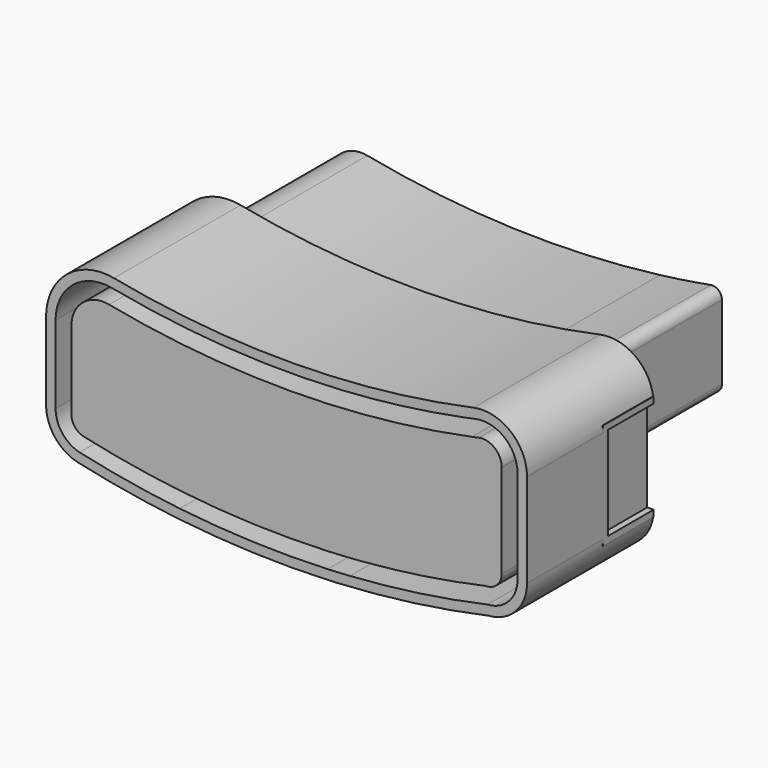
from build123d import *

# Parameters (mm, degrees)
F1_DEPTH = 82.55
F2_DEPTH = 79.375
F3_DEPTH = 79.375
F4_W     = 28.575
F4_H     = 46.8736138582
F5_DEPTH = 3.175
F4_W_2   = 31.75
F4_H_2   = 2.9616859944
F6_DEPTH = 2.54


with BuildPart() as f1:
    # F0 (on Front) → F1 (new body)
    with BuildSketch(Plane.XZ):
        with BuildLine():
            ThreePointArc((-38.1684067206, 50.7320462984), (-51.3011196758, 47.4032787363), (-57.0821855985, 35.1506006681))
            Line((-57.0821855985, 35.1506006681), (-57.0821855985, -3.9509958427))
            ThreePointArc((-57.0821855985, -3.9509958427), (-55.426384653, -8.8032286523), (-51.1497980108, -11.6310629299))
            ThreePointArc((-51.1497980108, -11.6310629299), (-26.559856165, -16.4669461082), (-1.7451494661, -19.9714200409))
            Line((-1.7451494661, -19.9714200409), (71.2249001265, -22.5109117746))
            ThreePointArc((71.2249001265, -22.5109117746), (72.2045700448, -22.4669599202), (73.1841451216, -22.4209427141))
            add(Edge.make_bspline(
                [(73.1841451216, -22.4209427141), (75.9434207871, -22.0422865359), (80.6734041506, -18.2947392446), (90.8872982521, -6.9644507778), (95.7219598854, 2.2987896539), (99.1133427614, 2.8890882254), (101.6678144015, 2.8890882254)],
                knots=[0.0441067744, 0.0441067744, 0.0441067744, 0.0441067744, 0.2456007741, 0.565769449, 0.8130127393, 1, 1, 1, 1], degree=3))
            Line((101.6678144015, 2.8890882254), (135.0053144015, 2.8890882254))
            ThreePointArc((135.0053144015, 2.8890882254), (138.3729104469, 4.28399218), (139.7678144015, 7.6515882254))
            Line((139.7678144015, 7.6515882254), (139.7678144015, 44.94061737))
            ThreePointArc((139.7678144015, 44.94061737), (138.0513208027, 48.601662474), (134.1391524576, 49.6236900511))
            ThreePointArc((134.1391524576, 49.6236900511), (121.4490364743, 47.4820539253), (108.6979382545, 45.7398877005))
            ThreePointArc((108.6979382545, 45.7398877005), (35.0663733736, 42.3993804581), (-38.1684067206, 50.7320462984))
        make_face()
    extrude(amount=-F1_DEPTH)

    # F0 (on Front) → F2 (join)
    with BuildSketch(Plane.XZ):
        with BuildLine():
            ThreePointArc((147.3177307895, 52.2405936393), (147.3040014388, 52.2376837155), (147.2902720004, 52.234774206))
            ThreePointArc((147.2902720004, 52.234774206), (148.7826730727, 48.7227814214), (149.2922567745, 44.9410253836))
            Line((149.2922567745, 44.9410253836), (149.2922567745, 7.651996239))
            ThreePointArc((149.2922567745, 7.651996239), (145.1075449107, -2.4507918972), (135.0047567745, -6.635503761))
            Line((135.0047567745, -6.635503761), (102.1617779669, -6.635503761))
            ThreePointArc((102.1617779669, -6.635503761), (101.7226719352, -6.7408371438), (101.3791365615, -7.0339116663))
            add(Edge.make_bspline(
                [(90.05797947, -21.3026723511), (91.3235592577, -19.9245232349), (94.9091214249, -16.0037133084), (98.8124235031, -10.5114004565), (100.7070874629, -7.957457618), (101.3791365615, -7.0339116663)],
                knots=[0.5378357414, 0.5378357414, 0.5378357414, 0.5378357414, 0.6467666082, 0.855418257, 0.9817631457, 0.9817631457, 0.9817631457, 0.9817631457], degree=3))
            ThreePointArc((90.05797947, -21.3026723511), (120.5668523927, -17.704884738), (150.7716967973, -12.1010666461))
            ThreePointArc((150.7716967973, -12.1010666461), (156.4544400736, -9.8152415628), (158.8178144015, -4.1643098484))
            Line((158.8178144015, -4.1643098484), (158.8178144015, 42.9226180155))
            ThreePointArc((158.8178144015, 42.9226180155), (155.2891863711, 50.3232361115), (147.3177307895, 52.2405936393))
        make_face()
        with BuildLine():
            ThreePointArc((-38.1684067206, 50.7320462984), (-51.3011196758, 47.4032787363), (-57.0821855985, 35.1506006681))
            Line((-57.0821855985, 35.1506006681), (-57.0821855985, -3.9509958427))
            ThreePointArc((-57.0821855985, -3.9509958427), (-55.426384653, -8.8032286523), (-51.1497980108, -11.6310629299))
            ThreePointArc((-51.1497980108, -11.6310629299), (-26.559856165, -16.4669461082), (-1.7451494661, -19.9714200409))
            Line((-1.7451494661, -19.9714200409), (71.2249001265, -22.5109117746))
            ThreePointArc((71.2249001265, -22.5109117746), (72.2045700448, -22.4669599202), (73.1841451216, -22.4209427141))
            add(Edge.make_bspline(
                [(73.1841451216, -22.4209427141), (75.9434207871, -22.0422865359), (80.6734041506, -18.2947392446), (90.8872982521, -6.9644507778), (95.7219598854, 2.2987896539), (99.1133427614, 2.8890882254), (101.6678144015, 2.8890882254)],
                knots=[0.0441067744, 0.0441067744, 0.0441067744, 0.0441067744, 0.2456007741, 0.565769449, 0.8130127393, 1, 1, 1, 1], degree=3))
            Line((101.6678144015, 2.8890882254), (135.0053144015, 2.8890882254))
            ThreePointArc((135.0053144015, 2.8890882254), (138.3729104469, 4.28399218), (139.7678144015, 7.6515882254))
            Line((139.7678144015, 7.6515882254), (139.7678144015, 44.94061737))
            ThreePointArc((139.7678144015, 44.94061737), (138.0513208027, 48.601662474), (134.1391524576, 49.6236900511))
            ThreePointArc((134.1391524576, 49.6236900511), (121.4490364743, 47.4820539253), (108.6979382545, 45.7398877005))
            ThreePointArc((108.6979382545, 45.7398877005), (35.0663733736, 42.3993804581), (-38.1684067206, 50.7320462984))
        make_face()
        with BuildLine():
            Line((71.2249001265, -22.5109117746), (-1.7451494661, -19.9714200409))
            ThreePointArc((-1.7451494661, -19.9714200409), (34.6899692652, -22.6751725593), (71.2249001265, -22.5109117746))
        make_face()
        with BuildLine():
            ThreePointArc((143.9466783497, 51.5390768111), (126.3780011208, 48.30096912), (108.6979382545, 45.7398877005))
            ThreePointArc((108.6979382545, 45.7398877005), (121.4490364743, 47.4820539253), (134.1391524576, 49.6236900511))
            ThreePointArc((134.1391524576, 49.6236900511), (138.0513208027, 48.601662474), (139.7678144015, 44.94061737))
            Line((139.7678144015, 44.94061737), (139.7678144015, 7.6515882254))
            ThreePointArc((139.7678144015, 7.6515882254), (138.3729104469, 4.28399218), (135.0053144015, 2.8890882254))
            Line((135.0053144015, 2.8890882254), (101.6678144015, 2.8890882254))
            add(Edge.make_bspline(
                [(73.1841451216, -22.4209427141), (75.9434207871, -22.0422865359), (80.6734041506, -18.2947392446), (90.8872982521, -6.9644507778), (95.7219598854, 2.2987896539), (99.1133427614, 2.8890882254), (101.6678144015, 2.8890882254)],
                knots=[0.0441067744, 0.0441067744, 0.0441067744, 0.0441067744, 0.2456007741, 0.565769449, 0.8130127393, 1, 1, 1, 1], degree=3))
            ThreePointArc((73.1841451216, -22.4209427141), (79.189790649, -22.0935409654), (85.1907006417, -21.6885108853))
            add(Edge.make_bspline(
                [(85.1907006417, -21.6885108853), (85.3316562723, -21.546462386), (85.8592303139, -21.0108280896), (86.9005771439, -19.9219148207), (88.3189595642, -18.3981317715), (89.8468892478, -16.6679338884), (91.2112293455, -15.0269591754), (92.3641231363, -13.5963023763), (93.2389828574, -12.4562530137), (93.9140957607, -11.541767885), (94.4607060458, -10.7839701191), (94.9813999105, -10.0361040759), (95.5722075611, -9.1680828129), (96.248718327, -8.136755973), (96.9465700319, -7.0524296173), (97.6135099851, -6.0251623137), (98.2059629092, -5.1532398321), (98.689548654, -4.4904265896), (99.0533959756, -4.0628569433), (99.2758382521, -3.8343000024), (99.3994163915, -3.7241747659), (99.4644281546, -3.6700686469), (99.4988744243, -3.6524085927), (99.5407899606, -3.6191426696), (99.7042749, -3.5807788078), (100.0746003699, -3.5046651117), (100.6402444361, -3.4687488654), (101.2024357983, -3.4597335005), (101.5434034733, -3.4608528823), (101.6678144015, -3.4609117746)],
                knots=[16.4433649886, 16.4433649886, 16.4433649886, 16.4433649886, 17.0437041267, 18.6987987543, 20.9632669056, 23.2886140279, 25.6225249388, 27.3648826032, 28.8004402381, 29.933251019, 30.7748606247, 31.6034468712, 32.6670003796, 33.9247844246, 35.3035189307, 36.5355216577, 37.5988903701, 38.4660558512, 38.9951195454, 39.2820824127, 39.4215161623, 39.4921562657, 39.5348392388, 39.5367058687, 39.65261617, 40.0198626541, 40.6886532702, 41.3372818098, 41.7106892785, 41.7106892785, 41.7106892785, 41.7106892785], degree=3))
            Line((101.6678144015, -3.4609117746), (135.0053144015, -3.4609117746))
            ThreePointArc((135.0053144015, -3.4609117746), (142.8630385075, -0.2061358805), (146.1178144015, 7.6515882254))
            Line((146.1178144015, 7.6515882254), (146.1178144015, 44.94061737))
            ThreePointArc((146.1178144015, 44.94061737), (145.5610844616, 48.4138542879), (143.9466783497, 51.5390768111))
        make_face()
        with BuildLine():
            ThreePointArc((147.2902720004, 52.234774206), (145.6191136841, 51.883856768), (143.9466783497, 51.5390768111))
            ThreePointArc((143.9466783497, 51.5390768111), (145.5610844616, 48.4138542879), (146.1178144015, 44.94061737))
            Line((146.1178144015, 44.94061737), (146.1178144015, 7.6515882254))
            ThreePointArc((146.1178144015, 7.6515882254), (142.8630385075, -0.2061358805), (135.0053144015, -3.4609117746))
            Line((135.0053144015, -3.4609117746), (101.6678144015, -3.4609117746))
            add(Edge.make_bspline(
                [(85.1907006417, -21.6885108853), (85.3316562723, -21.546462386), (85.8592303139, -21.0108280896), (86.9005771439, -19.9219148207), (88.3189595642, -18.3981317715), (89.8468892478, -16.6679338884), (91.2112293455, -15.0269591754), (92.3641231363, -13.5963023763), (93.2389828574, -12.4562530137), (93.9140957607, -11.541767885), (94.4607060458, -10.7839701191), (94.9813999105, -10.0361040759), (95.5722075611, -9.1680828129), (96.248718327, -8.136755973), (96.9465700319, -7.0524296173), (97.6135099851, -6.0251623137), (98.2059629092, -5.1532398321), (98.689548654, -4.4904265896), (99.0533959756, -4.0628569433), (99.2758382521, -3.8343000024), (99.3994163915, -3.7241747659), (99.4644281546, -3.6700686469), (99.4988744243, -3.6524085927), (99.5407899606, -3.6191426696), (99.7042749, -3.5807788078), (100.0746003699, -3.5046651117), (100.6402444361, -3.4687488654), (101.2024357983, -3.4597335005), (101.5434034733, -3.4608528823), (101.6678144015, -3.4609117746)],
                knots=[16.4433649886, 16.4433649886, 16.4433649886, 16.4433649886, 17.0437041267, 18.6987987543, 20.9632669056, 23.2886140279, 25.6225249388, 27.3648826032, 28.8004402381, 29.933251019, 30.7748606247, 31.6034468712, 32.6670003796, 33.9247844246, 35.3035189307, 36.5355216577, 37.5988903701, 38.4660558512, 38.9951195454, 39.2820824127, 39.4215161623, 39.4921562657, 39.5348392388, 39.5367058687, 39.65261617, 40.0198626541, 40.6886532702, 41.3372818098, 41.7106892785, 41.7106892785, 41.7106892785, 41.7106892785], degree=3))
            ThreePointArc((85.1907006417, -21.6885108853), (87.6248463277, -21.5019781399), (90.05797947, -21.3026723511))
            add(Edge.make_bspline(
                [(90.05797947, -21.3026723511), (91.3235592577, -19.9245232349), (94.9091214249, -16.0037133084), (98.8124235031, -10.5114004565), (100.7070874629, -7.957457618), (101.3791365615, -7.0339116663)],
                knots=[0.5378357414, 0.5378357414, 0.5378357414, 0.5378357414, 0.6467666082, 0.855418257, 0.9817631457, 0.9817631457, 0.9817631457, 0.9817631457], degree=3))
            ThreePointArc((101.3791365615, -7.0339116663), (101.7226719352, -6.7408371438), (102.1617779669, -6.635503761))
            Line((102.1617779669, -6.635503761), (135.0047567745, -6.635503761))
            ThreePointArc((135.0047567745, -6.635503761), (145.1075449107, -2.4507918972), (149.2922567745, 7.651996239))
            Line((149.2922567745, 7.651996239), (149.2922567745, 44.9410253836))
            ThreePointArc((149.2922567745, 44.9410253836), (148.7826730727, 48.7227814214), (147.2902720004, 52.234774206))
        make_face()
    extrude(amount=F2_DEPTH)


with BuildPart() as f3:
    # F0 (on Front) → F3 (new body, through all)
    with BuildSketch(Plane.XZ):
        with BuildLine():
            ThreePointArc((132.4062709427, 58.990243427), (135.738879221, 59.2096525244), (139.0313728552, 58.6493812))
            ThreePointArc((139.0313728552, 58.6493812), (142.3541133744, 59.3151723379), (145.6718277794, 60.0055733258))
            ThreePointArc((145.6718277794, 60.0055733258), (160.2861630124, 56.4904178581), (166.7553144015, 42.9226180155))
            Line((166.7553144015, 42.9226180155), (166.7553144015, -4.1643098484))
            ThreePointArc((166.7553144015, -4.1643098484), (162.4027739248, -15.0844083614), (151.7318748381, -20.0164538618))
            ThreePointArc((151.7318748381, -20.0164538618), (117.4094171072, -26.1909263021), (82.7253645007, -29.8202112722))
            add(Edge.make_bspline(
                [(77.1908889413, -34.9310041013), (79.0586963991, -34.1575165718), (80.8680638127, -32.1097305181), (82.7253645007, -29.8202112722)],
                knots=[0.162211173, 0.162211173, 0.162211173, 0.162211173, 0.327643252, 0.327643252, 0.327643252, 0.327643252], degree=3))
            ThreePointArc((77.1908889413, -34.9310041013), (114.9955885429, -31.3339380944), (152.3952542371, -24.7461310395))
            ThreePointArc((152.3952542371, -24.7461310395), (165.9993583049, -18.2114062635), (171.5178144015, -4.1643098484))
            Line((171.5178144015, -4.1643098484), (171.5178144015, 42.9226180155))
            ThreePointArc((171.5178144015, 42.9226180155), (163.2843489972, 60.1907269061), (144.6842859734, 64.6645611377))
            ThreePointArc((144.6842859734, 64.6645611377), (54.5473390558, 54.8458656938), (-35.7373836183, 63.1972028027))
            ThreePointArc((-35.7373836183, 63.1972028027), (-47.9894824097, 62.9090421763), (-58.9940096578, 57.5148470198))
            ThreePointArc((-58.9940096578, 57.5148470198), (-54.1741296377, 57.9822564385), (-49.3531385655, 57.5264494008))
            ThreePointArc((-49.3531385655, 57.5264494008), (-43.0689624156, 58.8902077274), (-36.6490172816, 58.5227691136))
            ThreePointArc((-36.6490172816, 58.5227691136), (20.8030241166, 51.0579820963), (78.7378210089, 50.9186440567))
            ThreePointArc((78.7378210089, 50.9186440567), (105.6923376876, 54.1546184016), (132.4062709427, 58.990243427))
        make_face()
        with BuildLine():
            ThreePointArc((78.7378210089, 50.9186440567), (109.0132194598, 53.780860031), (139.0313728552, 58.6493812))
            ThreePointArc((139.0313728552, 58.6493812), (135.738879221, 59.2096525244), (132.4062709427, 58.990243427))
            ThreePointArc((132.4062709427, 58.990243427), (105.6923376876, 54.1546184016), (78.7378210089, 50.9186440567))
        make_face()
        with BuildLine():
            add(Edge.make_bspline(
                [(77.1908889413, -34.9310041013), (79.0586963991, -34.1575165718), (80.8680638127, -32.1097305181), (82.7253645007, -29.8202112722)],
                knots=[0.162211173, 0.162211173, 0.162211173, 0.162211173, 0.327643252, 0.327643252, 0.327643252, 0.327643252], degree=3))
            ThreePointArc((82.7253645007, -29.8202112722), (77.1209443112, -30.1650809379), (71.5128256368, -30.4434075081))
            ThreePointArc((71.5128256368, -30.4434075081), (34.3539466955, -30.605779919), (-2.703044418, -27.8511368217))
            ThreePointArc((-2.703044418, -27.8511368217), (-27.9667532328, -24.2792414083), (-53.0011395648, -19.3504564763))
            ThreePointArc((-53.0011395648, -19.3504564763), (-61.6594135563, -13.7181453318), (-65.0196855985, -3.9509958427))
            Line((-65.0196855985, -3.9509958427), (-65.0196855985, 35.1506006681))
            ThreePointArc((-65.0196855985, 35.1506006681), (-60.7137314393, 48.8081929014), (-49.3531385655, 57.5264494008))
            ThreePointArc((-49.3531385655, 57.5264494008), (-54.1741296377, 57.9822564385), (-58.9940096578, 57.5148470198))
            ThreePointArc((-58.9940096578, 57.5148470198), (-66.9442126461, 47.5657552685), (-69.7821855985, 35.1506006681))
            Line((-69.7821855985, 35.1506006681), (-69.7821855985, -3.9509958427))
            ThreePointArc((-69.7821855985, -3.9509958427), (-65.3951121534, -16.6722396119), (-54.0990802773, -23.9849764661))
            ThreePointArc((-54.0990802773, -23.9849764661), (-29.4903018523, -28.8512076957), (-4.6600570397, -32.4192778318))
            ThreePointArc((-4.6600570397, -32.4192778318), (-3.9209354004, -32.5051712085), (-3.1816809027, -32.5899135101))
            ThreePointArc((-3.1816809027, -32.5899135101), (34.2482533571, -35.3674886228), (71.7807249927, -35.198742902))
            ThreePointArc((71.7807249927, -35.198742902), (74.4861863572, -35.0725397923), (77.1908889413, -34.9310041013))
        make_face()
    extrude(amount=F3_DEPTH)

    # F4 (on face) → F5 (cut)
    with BuildSketch(Plane.YZ.offset(171.5178144015)):
        with Locations((-14.2875, 19.4858110864)):
            Rectangle(F4_W, F4_H)
    extrude(amount=-F5_DEPTH, mode=Mode.SUBTRACT)

    # F4 (on face) → F6 (join)
    with BuildSketch(Plane.YZ.offset(171.5178144015)):
        Polygon((-28.575, 42.9226180155), (0, 42.9226180155), (0, 46.0976180155), (-31.75, 46.0976180155), (-31.75, 42.9226180155), align=None)
        Polygon((-28.575, -3.9509958427), (-28.575, 42.9226180155), (-31.75, 42.9226180155), (-31.75, -4.1643098484), (0, -4.1643098484), (0, -3.9509958427), align=None)
        with Locations((-15.875, -5.6451528456)):
            Rectangle(F4_W_2, F4_H_2)
    extrude(amount=-F6_DEPTH)


solid = Compound([f1.part, f3.part])
